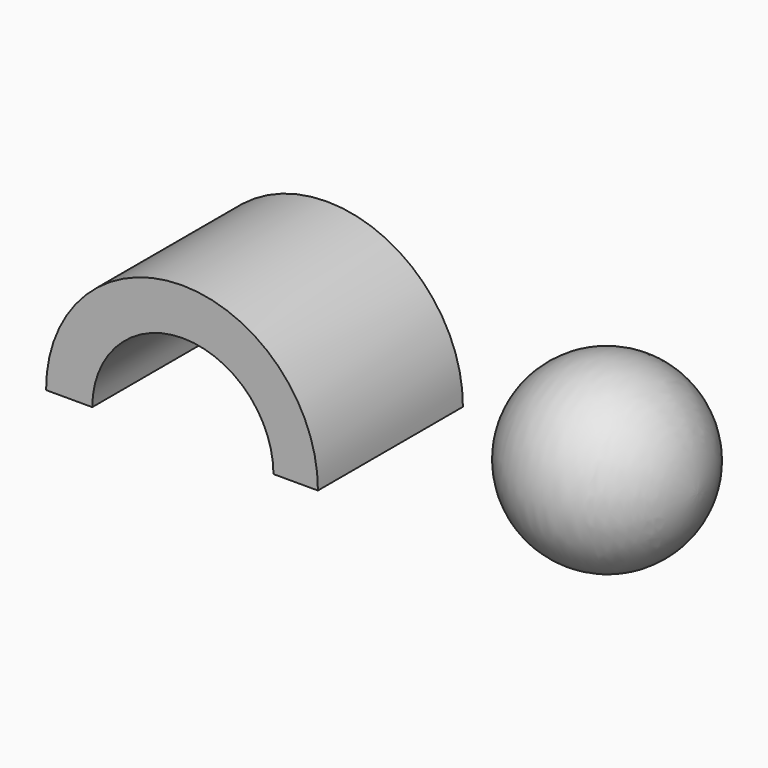
from build123d import *

# Parameters (mm, degrees)
F3_DEPTH = 50.8


with BuildPart() as f1:
    # F0 (on Front) → F1 (revolve)
    with BuildSketch(Plane.XZ):
        with BuildLine():
            ThreePointArc((25.090242, 0), (-0.309758, 25.012923), (-25.709758, 0))
            Line((-25.709758, 0), (25.090242, 0))
        make_face()
    revolve(axis=Axis((-0.309758, 0, 0), (1, 0, 0)))


with BuildPart() as f3:
    # F2 (on Front) → F3 (new body)
    with BuildSketch(Plane.XZ):
        with BuildLine():
            Line((-53.162791, 0), (-40.705801, 0))
            ThreePointArc((-40.705801, 0), (-78.805801, 38.28227), (-116.905801, 0))
            Line((-116.905801, 0), (-103.962791, 0))
            ThreePointArc((-103.962791, 0), (-78.562791, 25.288239), (-53.162791, 0))
        make_face()
    extrude(amount=F3_DEPTH)


solid = Compound([f1.part, f3.part])
